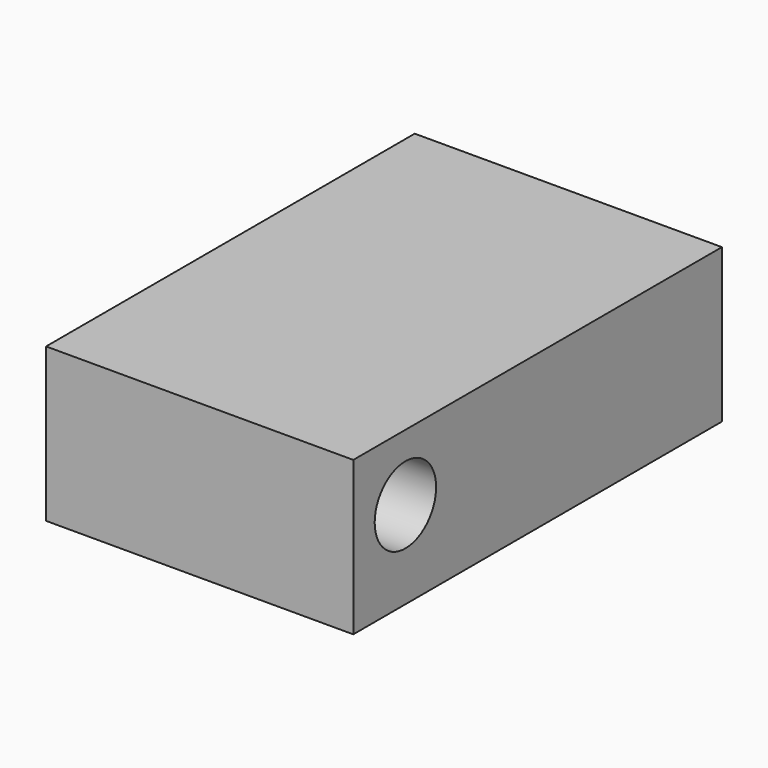
from build123d import *

# Parameters (mm, degrees)
F0_W     = 20
F0_H     = 30
F1_DEPTH = 10
F2_W     = 10.8
F2_H     = 3.1583849106
F3_DEPTH = 5.4
F4_DEPTH = 8.1
F5_R     = 2.5
F6_DEPTH = 20


with BuildPart() as f1:
    # F0 (on Top) → F1 (new body)
    with BuildSketch(Plane.XY):
        Rectangle(F0_W, F0_H)
    extrude(amount=F1_DEPTH)

    # F2 (on face) → F3 (cut)
    with BuildSketch(Plane(origin=(-10, 0, 0), x_dir=(0, -1, 0), z_dir=(-1, 0, 0))):
        with Locations((-3.6, 1.5791924553)):
            Rectangle(F2_W, F2_H)
    extrude(amount=-F3_DEPTH, mode=Mode.SUBTRACT)

    # F2 (on face) → F4 (cut)
    with BuildSketch(Plane(origin=(-10, 0, 0), x_dir=(0, -1, 0), z_dir=(-1, 0, 0))):
        Polygon((-12.7, 3.1583849106), (-9, 3.1583849106), (1.8, 3.1583849106), (5.5, 3.1583849106), (5.5, 6.8666899811), (-12.7, 6.8666899811), align=None)
    extrude(amount=-F4_DEPTH, mode=Mode.SUBTRACT)

    # F5 (on face) → F6 (cut)
    with BuildSketch(Plane(origin=(-10, 0, 0), x_dir=(0, -1, 0), z_dir=(-1, 0, 0))):
        with Locations((10.7573593129, 5.7)):
            Circle(F5_R)
    extrude(amount=-F6_DEPTH, mode=Mode.SUBTRACT)


solid = f1.part
